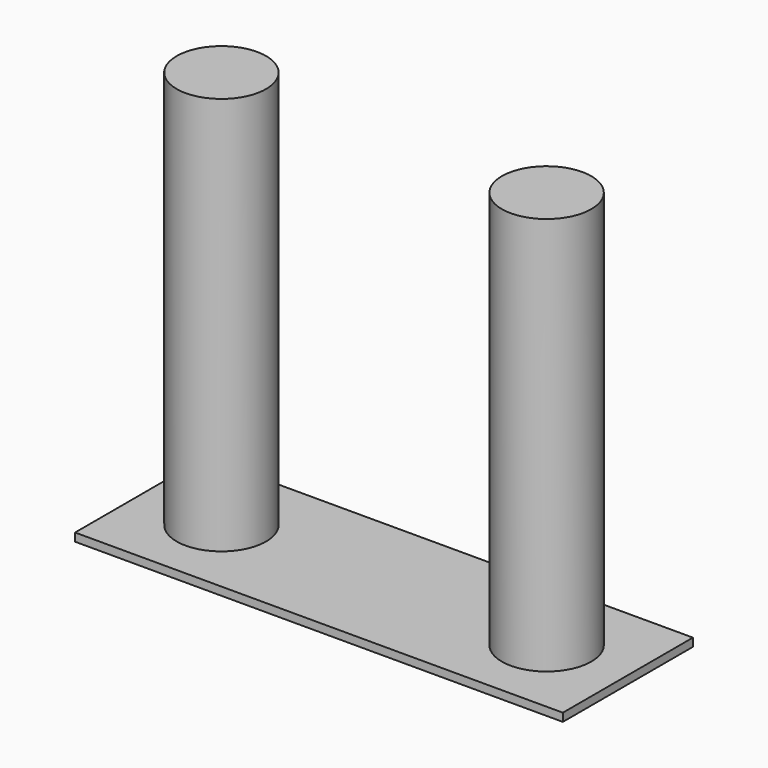
from build123d import *

# Parameters (mm, degrees)
F1_DEPTH = 0.5
F2_DEPTH = 25


with BuildPart() as f1:
    # F0 (on Top) → F1 (new body)
    with BuildSketch(Plane.XY):
        with BuildLine():
            Line((15, 0), (15, 5))
            Line((15, 5), (-15, 5))
            Line((-15, 5), (-15, 0))
            Line((-15, 0), (-12.75, 0))
            ThreePointArc((-12.75, 0), (-10, 2.75), (-7.25, 0))
            Line((-7.25, 0), (7.25, 0))
            ThreePointArc((7.25, 0), (10, 2.75), (12.75, 0))
            Line((12.75, 0), (15, 0))
        make_face()
        with BuildLine():
            Line((15, -5), (15, 0))
            Line((15, 0), (12.75, 0))
            ThreePointArc((12.75, 0), (10, -2.75), (7.25, 0))
            Line((7.25, 0), (-7.25, 0))
            ThreePointArc((-7.25, 0), (-10, -2.75), (-12.75, 0))
            Line((-12.75, 0), (-15, 0))
            Line((-15, 0), (-15, -5))
            Line((-15, -5), (15, -5))
        make_face()
    extrude(amount=F1_DEPTH)

    # F0 (on Top) → F2 (join)
    with BuildSketch(Plane.XY):
        with BuildLine():
            ThreePointArc((-7.25, 0), (-10, 2.75), (-12.75, 0))
            Line((-12.75, 0), (-10, 0))
            Line((-10, 0), (-7.25, 0))
        make_face()
        with BuildLine():
            Line((-10, 0), (-12.75, 0))
            ThreePointArc((-12.75, 0), (-10, -2.75), (-7.25, 0))
            Line((-7.25, 0), (-10, 0))
        make_face()
        with BuildLine():
            Line((10, 0), (12.75, 0))
            ThreePointArc((12.75, 0), (10, 2.75), (7.25, 0))
            Line((7.25, 0), (10, 0))
        make_face()
        with BuildLine():
            ThreePointArc((7.25, 0), (10, -2.75), (12.75, 0))
            Line((12.75, 0), (10, 0))
            Line((10, 0), (7.25, 0))
        make_face()
    extrude(amount=F2_DEPTH)


solid = f1.part
